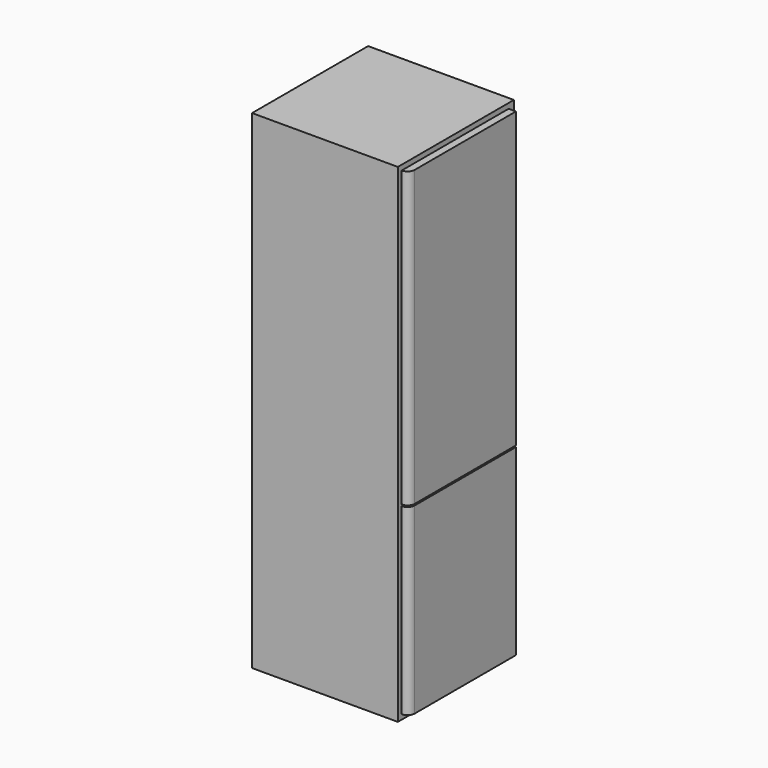
from build123d import *

# Parameters (mm, degrees)
SKETCH627_W             = 597
SKETCH627_H             = 600
PAD300_DEPTH            = 2011
SKETCH628_W             = 550
SKETCH628_H             = 1210
PAD301_DEPTH            = 30
FILLET211_R             = 29
SKETCH629_W             = 550
SKETCH629_H             = 754
PAD302_DEPTH            = 30
FILLET212_R             = 29
BODY127_PLACEMENT_ANGLE = 90


with BuildPart() as part:
    # Sketch627 → Pad300 (new body)
    with BuildSketch(Plane.XY):
        with Locations((298.5, 300)):
            Rectangle(SKETCH627_W, SKETCH627_H)
    extrude(amount=PAD300_DEPTH)

    # Sketch628 (on Face1 of Pad300) → Pad301 (join)
    with BuildSketch(Plane.XZ):
        with Locations((295, 1385)):
            Rectangle(SKETCH628_W, SKETCH628_H)
    extrude(amount=PAD301_DEPTH)

    # Fillet211
    fillet211_edges = [part.edges().sort_by_distance(p)[0] for p in [
        (20, -30, 1385),
    ]]
    fillet(fillet211_edges, radius=FILLET211_R)

    # Sketch629 (on Face4 of Fillet211) → Pad302 (join)
    with BuildSketch(Plane.XZ):
        with Locations((295, 397)):
            Rectangle(SKETCH629_W, SKETCH629_H)
    extrude(amount=PAD302_DEPTH)

    # Fillet212
    fillet212_edges = [part.edges().sort_by_distance(p)[0] for p in [
        (20, -30, 397),
    ]]
    fillet(fillet212_edges, radius=FILLET212_R)


with BuildPart() as part_1:
    # Body127 placement: moved
    add(part.part.moved(Location((3259, 4046, 15))).rotate(Axis((3259, 4046, 15), (0, 0, 1)), BODY127_PLACEMENT_ANGLE))


solid = part_1.part
